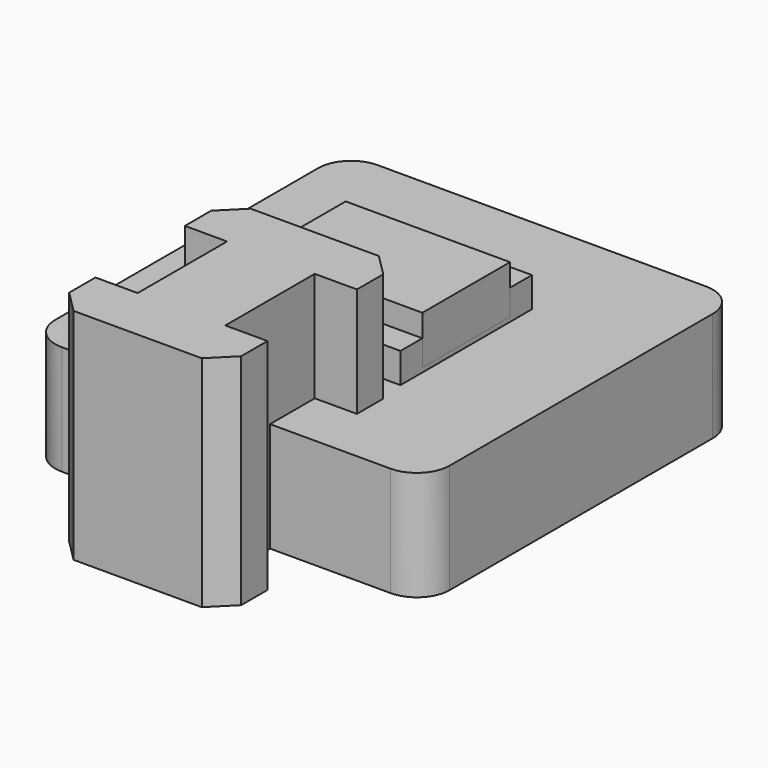
from build123d import *

# Parameters (mm, degrees)
SKETCH_W        = 19
SKETCH_H        = 10
SKETCH_R        = 2.5
PAD_DEPTH       = 5.842
CHAMFER_SIZE    = 2.54
SKETCH001_W     = 10
SKETCH001_H     = 10
PAD001_DEPTH    = 6.35
SKETCH002_W     = 19.05
SKETCH002_H     = 19.05
PAD002_DEPTH    = 9.84
SKETCH003_R     = 3.25
POCKET_DEPTH    = 16.191
SKETCH004_W     = 10
SKETCH004_H     = 12.7
PAD003_DEPTH    = 13.21
SKETCH005_W     = 19.05
SKETCH005_H     = 12.7
PAD004_DEPTH    = 5.588
SKETCH006_R     = 3.175
POCKET001_DEPTH = 12.701
SKETCH007_R     = 4.572
POCKET002_DEPTH = 5.33
SKETCH008_R     = 6.5
PAD005_DEPTH    = 12.7
SKETCH011_W     = 10.16
SKETCH011_H     = 12.7
PAD008_DEPTH    = 6.477
SKETCH012_W     = 19.939
SKETCH012_H     = 12.7
PAD009_DEPTH    = 6.35
CHAMFER001_SIZE = 2.54
PAD010_DEPTH    = 12.7


with BuildPart() as f_4545_nut_m5:
    # Sketch → Pad (new body)
    with BuildSketch(Plane.XY):
        Rectangle(SKETCH_W, SKETCH_H)
        Circle(SKETCH_R, mode=Mode.SUBTRACT)
    extrude(amount=PAD_DEPTH)

    # Chamfer
    chamfer_edges = [f_4545_nut_m5.edges().sort_by_distance(p)[0] for p in [
        (-9.5, 0, 0),
        (9.5, 0, 0),
    ]]
    chamfer(chamfer_edges, length=CHAMFER_SIZE)


with BuildPart() as obj1:
    # Sketch001 → Pad001 (new body)
    with BuildSketch(Plane.XY):
        Rectangle(SKETCH001_W, SKETCH001_H)
    extrude(amount=PAD001_DEPTH)

    # Sketch002 (on Face6 of Pad001) → Pad002 (join)
    with BuildSketch(Plane.XY.offset(6.35)):
        Rectangle(SKETCH002_W, SKETCH002_H)
    extrude(amount=PAD002_DEPTH)

    # Sketch003 (on Face5 of Pad002) → Pocket (cut, through all)
    with BuildSketch(Plane.XY.offset(16.19)):
        Circle(SKETCH003_R)
    extrude(amount=-POCKET_DEPTH, mode=Mode.SUBTRACT)


with BuildPart() as sliding_nut:
    # Sketch004 → Pad003 (new body)
    with BuildSketch(Plane.XY):
        Rectangle(SKETCH004_W, SKETCH004_H)
    extrude(amount=PAD003_DEPTH)

    # Sketch005 (on Face6 of Pad003) → Pad004 (join)
    with BuildSketch(Plane.XY.offset(13.21)):
        Rectangle(SKETCH005_W, SKETCH005_H)
    extrude(amount=PAD004_DEPTH)

    # Sketch006 (on Face5 of Pad004) → Pocket001 (cut, through all)
    with BuildSketch(Plane(origin=(0, 6.35, 0), x_dir=(-1, 0, 0), z_dir=(0, 1, 0))):
        Circle(SKETCH006_R)
    extrude(amount=-POCKET001_DEPTH, mode=Mode.SUBTRACT)

    # Sketch007 (on Face5 of Pocket001) → Pocket002 (cut)
    with BuildSketch(Plane(origin=(0, 6.35, 0), x_dir=(-1, 0, 0), z_dir=(0, 1, 0))):
        Circle(SKETCH007_R)
    extrude(amount=-POCKET002_DEPTH, mode=Mode.SUBTRACT)


with BuildPart() as window_cap:
    # Sketch008 → Pad005 (new body)
    with BuildSketch(Plane.XY):
        with BuildLine():
            Line((-19.05, 22.86), (19.05, 22.86))
            ThreePointArc((22.86, 19.05), (21.744077, 21.744077), (19.05, 22.86))
            Line((22.86, 19.05), (22.86, -19.05))
            ThreePointArc((19.05, -22.86), (21.744077, -21.744077), (22.86, -19.05))
            Line((19.05, -22.86), (-19.05, -22.86))
            ThreePointArc((-22.86, -19.05), (-21.744077, -21.744077), (-19.05, -22.86))
            Line((-22.86, -19.05), (-22.86, 19.05))
            ThreePointArc((-19.05, 22.86), (-21.744077, 21.744077), (-22.86, 19.05))
        make_face()
        Circle(SKETCH008_R, mode=Mode.SUBTRACT)
    extrude(amount=PAD005_DEPTH)

    # Sketch011 (on Face5 of Pad005) → Pad008 (join)
    with BuildSketch(Plane.XZ.offset(22.86)):
        with Locations((0, 6.35)):
            Rectangle(SKETCH011_W, SKETCH011_H)
    extrude(amount=PAD008_DEPTH)

    # Sketch012 (on Face17 of Pad008) → Pad009 (join)
    with BuildSketch(Plane.XZ.offset(29.337)):
        with Locations((0, 6.35)):
            Rectangle(SKETCH012_W, SKETCH012_H)
    extrude(amount=PAD009_DEPTH)

    # Chamfer001
    chamfer001_edges = [window_cap.edges().sort_by_distance(p)[0] for p in [
        (-9.9695, -35.687, 6.35),
        (9.9695, -35.687, 6.35),
    ]]
    chamfer(chamfer001_edges, length=CHAMFER001_SIZE)

    # Sketch013 (on Face13 of Chamfer001) → Pad010 (join)
    with BuildSketch(Plane.XY.offset(12.7)):
        Polygon((-7.4295, -10.033), (7.4295, -10.033), (9.9695, -12.573), (9.9695, -16.383), (5.08, -16.383), (5.08, -22.86), (5.08, -29.337), (9.9695, -29.337), (9.9695, -33.147), (7.4295, -35.687), (-7.4295, -35.687), (-9.9695, -33.147), (-9.9695, -29.337), (-5.08, -29.337), (-5.08, -16.383), (-9.9695, -16.383), (-9.9695, -12.573), align=None)
    extrude(amount=PAD010_DEPTH)


solid = Compound([f_4545_nut_m5.part, obj1.part, sliding_nut.part, window_cap.part])
